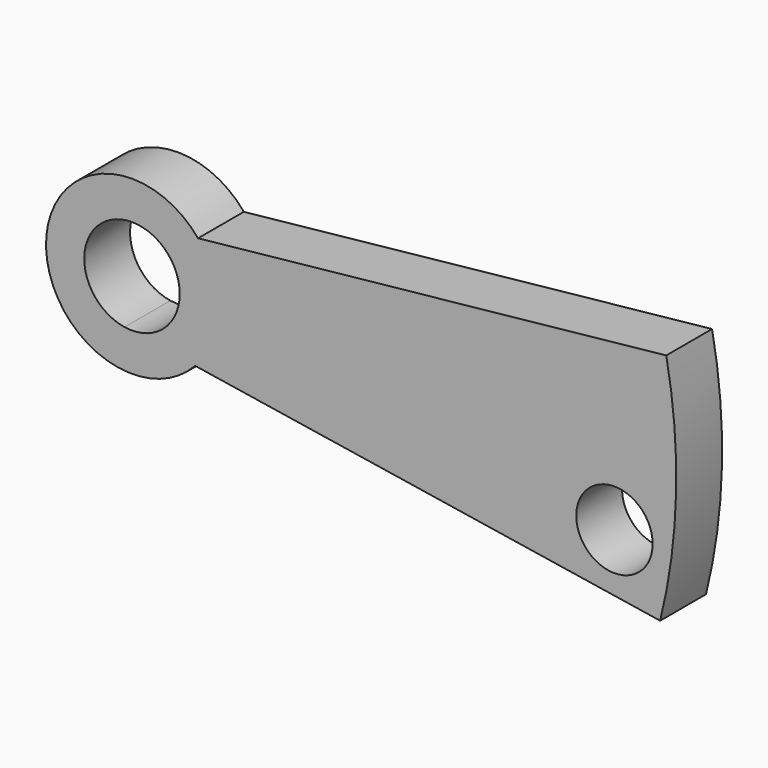
from build123d import *

# Parameters (mm, degrees)
F0_R     = 2
F1_DEPTH = 3


with BuildPart() as f1:
    # F0 (on Front) → F1 (new body)
    with BuildSketch(Plane.XZ):
        with BuildLine():
            Line((27.974745, 5.446434), (3.460605, 2.876493))
            ThreePointArc((3.460605, 2.876493), (4.232182, 1.529261), (4.5, 0))
            ThreePointArc((4.5, 0), (4.191191, -1.638267), (3.307147, -3.051685))
            Line((3.307147, -3.051685), (27.655492, -6.886493))
            ThreePointArc((27.655492, -6.886493), (28.490456, -0.737511), (27.974745, 5.446434))
        make_face()
        with Locations((25.262442, -3.472612)):
            Circle(F0_R, mode=Mode.SUBTRACT)
        with BuildLine():
            ThreePointArc((-0.260659, 2.486374), (1.673074, 1.857639), (2.5, 0))
            ThreePointArc((2.5, 0), (1.624442, -1.900312), (-0.38895, -2.469558))
            Line((-0.38895, -2.469558), (3.307147, -3.051685))
            ThreePointArc((3.307147, -3.051685), (4.191191, -1.638267), (4.5, 0))
            ThreePointArc((4.5, 0), (4.232182, 1.529261), (3.460605, 2.876493))
            Line((3.460605, 2.876493), (-0.260659, 2.486374))
        make_face()
        with BuildLine():
            ThreePointArc((-0.38895, -2.469558), (-2.499163, 0.064694), (-0.260659, 2.486374))
            Line((-0.260659, 2.486374), (3.460605, 2.876493))
            ThreePointArc((3.460605, 2.876493), (-4.498493, 0.116449), (3.307147, -3.051685))
            Line((3.307147, -3.051685), (-0.38895, -2.469558))
        make_face()
    extrude(amount=F1_DEPTH)


solid = f1.part
